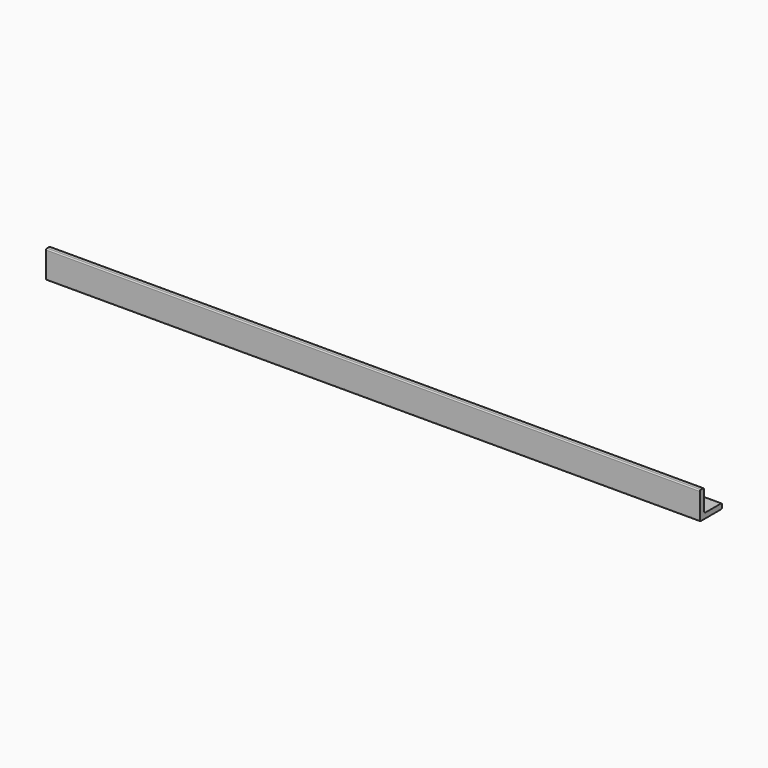
from build123d import *

# Parameters (mm, degrees)
F1_DEPTH = 300
F2_R     = 1
F3_R     = 2.38125
F4_R     = 2.5
F5_DEPTH = 25
F6_SIZE  = 0.5


with BuildPart() as f1:
    # F0 (on Right) → F1 (new body, symmetric)
    with BuildSketch(Plane.YZ):
        Polygon((0, 25.4), (0, 0), (25.4, 0), (25.4, 4.7625), (4.7625, 4.7625), (4.7625, 25.4), align=None)
    extrude(amount=F1_DEPTH, both=True)

    # F2
    f2_edges = [f1.edges().sort_by_distance(p)[0] for p in [
        (0, 0, 25.4),
        (0, 4.7625, 25.4),
        (0, 0, 0),
        (0, 25.4, 4.7625),
        (0, 25.4, 0),
    ]]
    fillet(f2_edges, radius=F2_R)

    # F3
    f3_edges = [f1.edges().sort_by_distance(p)[0] for p in [
        (0, 4.7625, 4.7625),
    ]]
    fillet(f3_edges, radius=F3_R)

    # F4 (on face) → F5 (cut)
    with BuildSketch(Plane.XY.offset(4.7625)):
        with Locations((0, 15)):
            Circle(F4_R)
    extrude(amount=-F5_DEPTH, mode=Mode.SUBTRACT)

    # F6
    f6_edges = [f1.edges().sort_by_distance(p)[0] for p in [
        (-2.5, 15, 4.7625),
        (2.5, 15, 2.38125),
        (-2.5, 15, 0),
    ]]
    chamfer(f6_edges, length=F6_SIZE)


solid = f1.part
